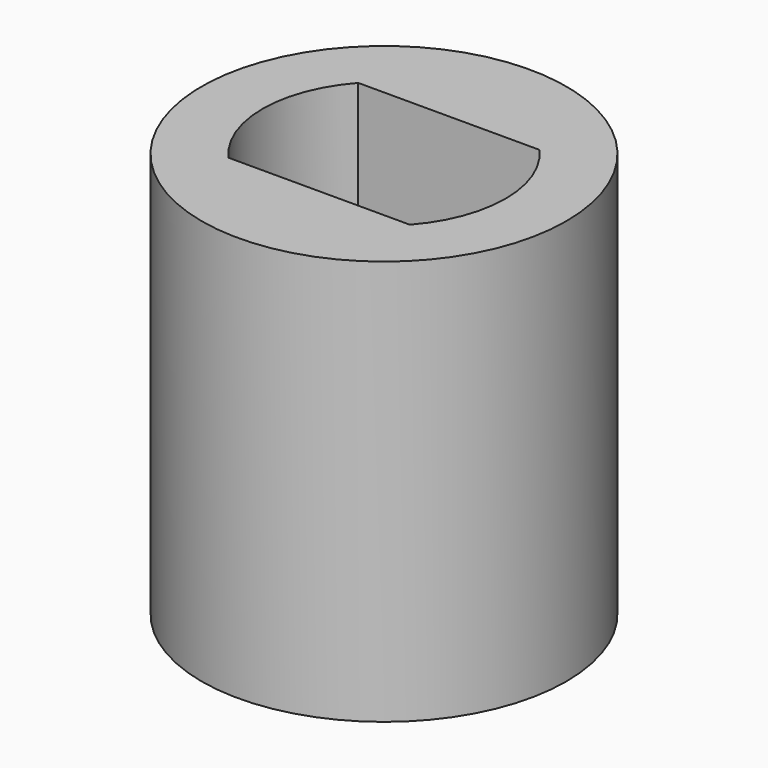
from build123d import *

# Parameters (mm, degrees)
EXTRUDE001_DEPTH = 7
CYLINDER_R       = 4.5
CYLINDER_DEPTH   = 10


with BuildPart() as extrude001:
    # Sketch002 (on Face3 of Cylinder) → Extrude001 (new body)
    with BuildSketch(Plane.XY.offset(10)):
        with BuildLine():
            ThreePointArc((2.236068, -2), (3, 0), (2.236068, 2))
            Line((-2.236068, 2), (2.236068, 2))
            ThreePointArc((-2.236068, 2), (-3, 0), (-2.236068, -2))
            Line((2.236068, -2), (-2.236068, -2))
        make_face()
    extrude(amount=-EXTRUDE001_DEPTH)


with BuildPart() as cut_for_support:
    # Cylinder → Cylinder (new body)
    with BuildSketch(Plane.XY):
        Circle(CYLINDER_R)
    extrude(amount=CYLINDER_DEPTH)

    # Cut001: cut Extrude001
    add(extrude001.part, mode=Mode.SUBTRACT)


solid = cut_for_support.part
